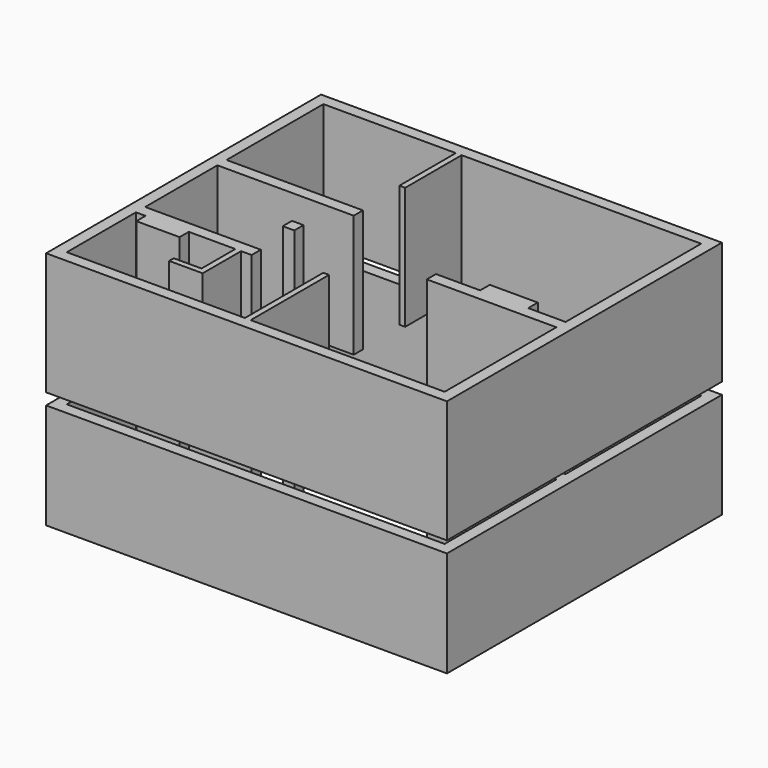
from build123d import *

# Parameters (mm, degrees)
F0_W     = 8350
F0_H     = 7160
F1_DEPTH = 2200
F0_W_2   = 240
F0_H_2   = 240
F2_DEPTH = 2200
F3_W     = 240
F3_H     = 300
F4_DEPTH = 2760
F6_W     = 8350
F6_H     = 7160
F7_DEPTH = 2550
F6_W_2   = 240
F6_H_2   = 240


with BuildPart() as f1:
    # F0 (on Top) → F1 (new body)
    with BuildSketch(Plane.XY):
        with Locations((-4175, 3580)):
            Rectangle(F0_W, F0_H)
        Polygon((-8110, 6920), (-240, 6920), (-240, 3390), (-1020, 3390), (-1020, 3640), (-2020, 3640), (-2020, 3390), (-2940, 3390), (-2940, 3150), (-240, 3150), (-240, 240), (-8110, 240), (-8110, 2040), (-7910, 2040), (-7910, 1800), (-7010, 1800), (-7010, 2040), (-5700, 2040), (-5700, 2280), (-8110, 2280), (-8110, 4160), (-5270, 4160), (-5270, 4400), (-8110, 4400), align=None, mode=Mode.SUBTRACT)
    extrude(amount=F1_DEPTH)


with BuildPart() as f2:
    # F0 (on Top) → F2 (new body)
    with BuildSketch(Plane.XY):
        with Locations((-5820, 3270)):
            Rectangle(F0_W_2, F0_H_2)
    extrude(amount=F2_DEPTH)


with BuildPart() as f4:
    # F3 (on face) → F4 (new body, through all)
    with BuildSketch(Plane.YZ.offset(-5700)):
        with Locations((3270, 2050)):
            Rectangle(F3_W, F3_H)
    extrude(amount=F4_DEPTH)


with BuildPart() as f7:
    # F6 (on offset) → F7 (new body)
    with BuildSketch(Plane.XY.offset(2440)):
        with Locations((-4175, 3580)):
            Rectangle(F6_W, F6_H)
        Polygon((-4400, 240), (-8110, 240), (-8110, 2040), (-7910, 2040), (-7910, 1800), (-7010, 1800), (-7010, 2040), (-6040, 2040), (-6040, 1160), (-6620, 1160), (-6620, 1040), (-5920, 1040), (-5920, 2040), (-5700, 2040), (-5700, 2280), (-8110, 2280), (-8110, 4160), (-5270, 4160), (-5270, 4400), (-8110, 4400), (-8110, 6920), (-5350, 6920), (-5350, 5450), (-5230, 5450), (-5230, 6920), (-240, 6920), (-240, 3390), (-1020, 3390), (-1020, 3640), (-2020, 3640), (-2020, 3390), (-2940, 3390), (-2940, 3150), (-240, 3150), (-240, 240), (-4280, 240), (-4280, 1680), (-4280, 1800), (-4280, 2280), (-4400, 2280), align=None, mode=Mode.SUBTRACT)
    extrude(amount=F7_DEPTH)


with BuildPart() as f7b:
    # F6 (on offset) → F7, piece 2 (new body)
    with BuildSketch(Plane.XY.offset(2440)):
        with Locations((-5820, 3270)):
            Rectangle(F6_W_2, F6_H_2)
    extrude(amount=F7_DEPTH)


solid = Compound([f1.part, f2.part, f4.part, f7.part, f7b.part])
